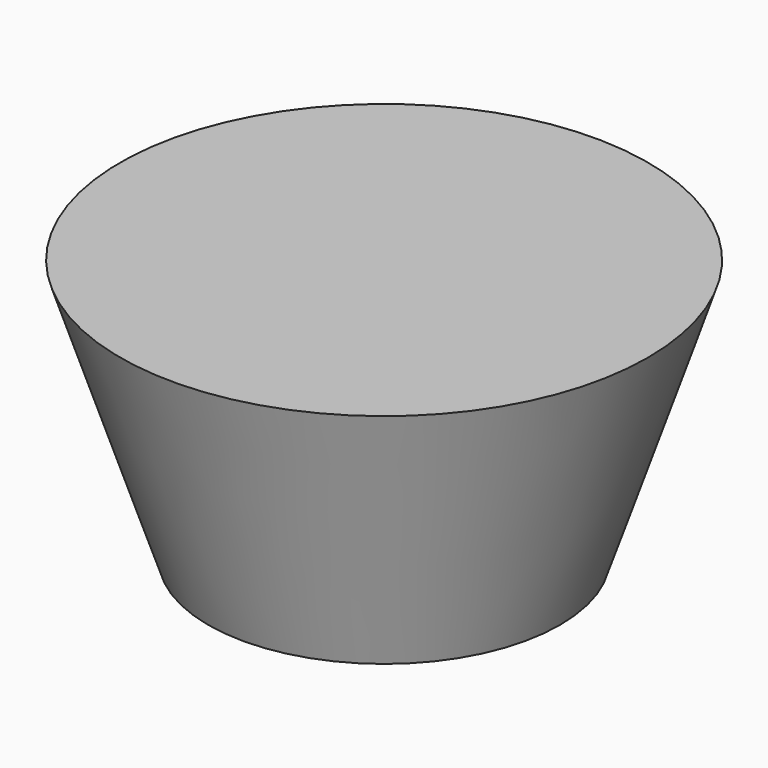
from build123d import *

# Parameters (mm, degrees)
BOX001_W               = 4
BOX001_H               = 19
BOX001_DEPTH           = 10
BOX001_PLACEMENT_ANGLE = 90
POCKET001_DEPTH        = 5
BOX002_W               = 4
BOX002_H               = 19
BOX002_DEPTH           = 10
POCKET002_DEPTH        = 5
BOX003_W               = 4
BOX003_H               = 19
BOX003_DEPTH           = 10
BOX003_PLACEMENT_ANGLE = -90
POCKET003_DEPTH        = 5
BOX_W                  = 4
BOX_H                  = 19
BOX_DEPTH              = 10
POCKET_DEPTH           = 5
CYLINDER_R             = 3.5
CYLINDER_DEPTH         = 9
CYLINDER001_R          = 5
CYLINDER001_DEPTH      = 12


with BuildPart() as pocket001:
    # Box001 → Box001 (new body)
    with BuildSketch(Plane.XY):
        with Locations((2, 9.5)):
            Rectangle(BOX001_W, BOX001_H)
    extrude(amount=BOX001_DEPTH)


with BuildPart() as pocket001_1:
    # Box001 placement: moved
    add(pocket001.part.moved(Location((-4, -2, 0))).rotate(Axis((-4, -2, 0), (0, 0, 1)), BOX001_PLACEMENT_ANGLE))

    # Sketch001 → Pocket001 (cut)
    with BuildSketch(Plane(origin=(-4, 2, 0), x_dir=(-1, 0, 0), z_dir=(0, 1, 0))):
        Polygon((14.366066, 0), (19, 0), (19, 10), (17.795696, 10), align=None)
    extrude(amount=-POCKET001_DEPTH, mode=Mode.SUBTRACT)


with BuildPart() as pocket002:
    # Box002 → Box002 (new body)
    with BuildSketch(Plane(origin=(2, -4, 0), x_dir=(-1, 0, 0), z_dir=(0, 0, 1))):
        with Locations((2, 9.5)):
            Rectangle(BOX002_W, BOX002_H)
    extrude(amount=BOX002_DEPTH)

    # Sketch002 → Pocket002 (cut)
    with BuildSketch(Plane(origin=(-2, -4, 0), x_dir=(0, -1, 0), z_dir=(-1, 0, 0))):
        Polygon((14.366066, 0), (19, 0), (19, 10), (17.795696, 10), align=None)
    extrude(amount=-POCKET002_DEPTH, mode=Mode.SUBTRACT)


with BuildPart() as pocket003:
    # Box003 → Box003 (new body)
    with BuildSketch(Plane.XY):
        with Locations((2, 9.5)):
            Rectangle(BOX003_W, BOX003_H)
    extrude(amount=BOX003_DEPTH)


with BuildPart() as pocket003_1:
    # Box003 placement: moved
    add(pocket003.part.moved(Location((4, 2, 0))).rotate(Axis((4, 2, 0), (0, 0, 1)), BOX003_PLACEMENT_ANGLE))

    # Sketch003 → Pocket003 (cut)
    with BuildSketch(Plane(origin=(4, -2, 0), x_dir=(1, 0, 0), z_dir=(0, -1, 0))):
        Polygon((14.366066, 0), (19, 0), (19, 10), (17.795696, 10), align=None)
    extrude(amount=-POCKET003_DEPTH, mode=Mode.SUBTRACT)


with BuildPart() as fusion:
    # Box → Box (new body)
    with BuildSketch(Plane(origin=(-2, 4, 0), x_dir=(1, 0, 0), z_dir=(0, 0, 1))):
        with Locations((2, 9.5)):
            Rectangle(BOX_W, BOX_H)
    extrude(amount=BOX_DEPTH)

    # Sketch → Pocket (cut)
    with BuildSketch(Plane(origin=(2, 4, 0), x_dir=(0, 1, 0), z_dir=(1, 0, 0))):
        Polygon((14.366066, 0), (19, 0), (19, 10), (17.795696, 10), align=None)
    extrude(amount=-POCKET_DEPTH, mode=Mode.SUBTRACT)

    # Fusion: union Pocket001, Pocket002, Pocket003
    add(pocket001_1.part)
    add(pocket002.part)
    add(pocket003_1.part)


with BuildPart() as soporte:
    # Cone002 → Cone002 (revolve)
    with BuildSketch(Plane(origin=(0, 0, 10), x_dir=(1, 0, 0), z_dir=(0, -1, 0))):
        Polygon((0, 0), (5, 0), (25, 17), (0, 17), align=None)
    revolve(axis=Axis((0, 0, 10), (0, 0, 1)))


with BuildPart() as cilindro:
    # Cylinder → Cylinder (new body)
    with BuildSketch(Plane.XY):
        Circle(CYLINDER_R)
    extrude(amount=CYLINDER_DEPTH)


with BuildPart() as fusion001:
    # Cylinder001 → Cylinder001 (new body)
    with BuildSketch(Plane.XY):
        Circle(CYLINDER001_R)
    extrude(amount=CYLINDER001_DEPTH)

    # Cut001: cut Cilindro
    add(cilindro.part, mode=Mode.SUBTRACT)

    # Fusion001: union Fusion, Soporte
    add(fusion.part)
    add(soporte.part)


with BuildPart() as cono001:
    # Cone001 → Cone001 (revolve)
    with BuildSketch(Plane.XZ):
        Polygon((0, 0), (17, 0), (27, 27), (0, 27), align=None)
    revolve(axis=Axis((0, 0, 0), (0, 0, 1)))


with BuildPart() as obj1:
    # Cone → Cone (revolve)
    with BuildSketch(Plane.XZ):
        Polygon((0, 0), (20, 0), (30, 30), (0, 30), align=None)
    revolve(axis=Axis((0, 0, 0), (0, 0, 1)))

    # Cut: cut Cono001
    add(cono001.part, mode=Mode.SUBTRACT)

    # Fusion002: union Fusion001
    add(fusion001.part)


solid = obj1.part
